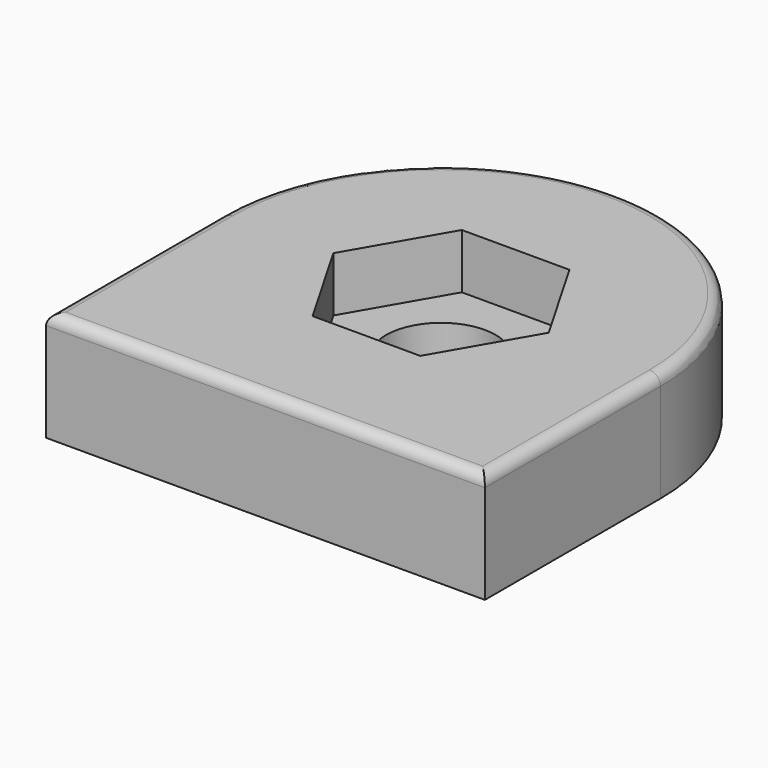
from build123d import *

# Parameters (mm, degrees)
SKETCH002_R          = 5
EXTRUDE005_DEPTH     = 10
EXTRUDE001_DEPTH     = 5
EXTRUDE_DEPTH        = 10
FILLET_R             = 1
BODY_PLACEMENT_ANGLE = 180


with BuildPart() as extrude005:
    # Sketch002 (on Face13 of Cut) → Extrude005 (new body)
    with BuildSketch(Plane(origin=(0, 0, 5), x_dir=(1, 0, 0), z_dir=(0, 0, -1))):
        Circle(SKETCH002_R)
    extrude(amount=-EXTRUDE005_DEPTH)


with BuildPart() as extrude001:
    # Sketch001 (on Face5 of Extrude) → Extrude001 (new body, symmetric)
    with BuildSketch(Plane(origin=(0, 0, 0), x_dir=(1, 0, 0), z_dir=(0, 0, -1))):
        Polygon((9.814955, 0), (4.907477, 8.5), (-4.907477, 8.5), (-9.814955, 0), (-4.907477, -8.5), (4.907477, -8.5), align=None)
    extrude(amount=EXTRUDE001_DEPTH, both=True)


with BuildPart() as body:
    # Sketch → Extrude (new body)
    with BuildSketch(Plane.XY):
        with BuildLine():
            ThreePointArc((20, 0), (0, 20), (-20, 0))
            Line((-20, -20), (-20, 0))
            Line((20, -20), (-20, -20))
            Line((20, 0), (20, -20))
        make_face()
    extrude(amount=EXTRUDE_DEPTH)

    # Cut: cut Extrude001
    add(extrude001.part, mode=Mode.SUBTRACT)

    # Cut001: cut Extrude005
    add(extrude005.part, mode=Mode.SUBTRACT)

    # Fillet
    fillet_edges = [body.edges().sort_by_distance(p)[0] for p in [
        (0, 20, 0),
        (20, -10, 0),
        (0, -20, 0),
        (-20, -10, 0),
    ]]
    fillet(fillet_edges, radius=FILLET_R)


with BuildPart() as body_1:
    # Body placement: moved
    add(body.part.rotate(Axis((0, 0, 0), (0, 1, 0)), BODY_PLACEMENT_ANGLE))


solid = body_1.part
